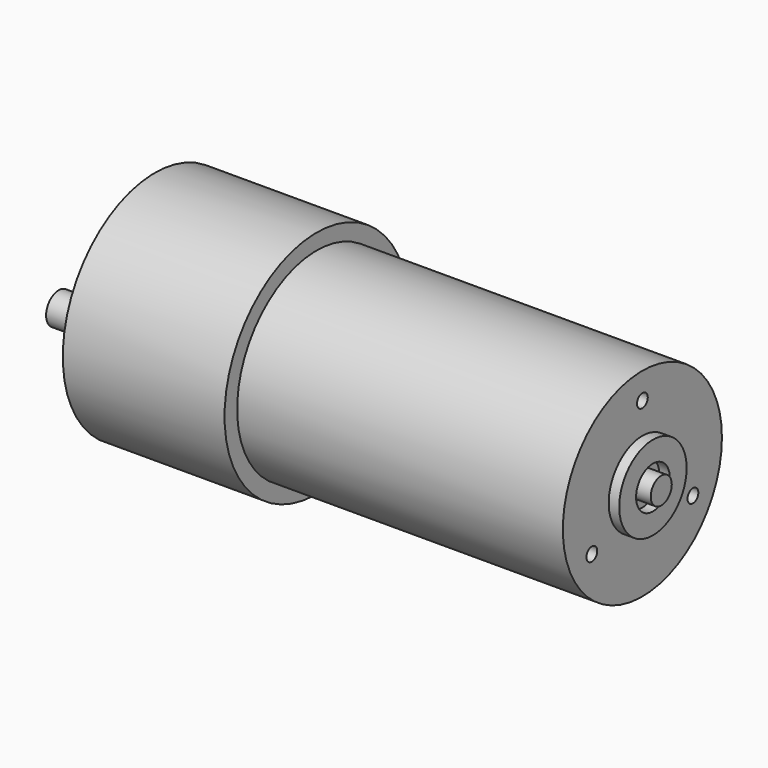
from build123d import *

# Parameters (mm, degrees)
F0_R      = 17.3609
F1_DEPTH  = 24.384
F2_R      = 14.986
F3_DEPTH  = 49.0982
F4_R      = 1.016
F5_DEPTH  = 6.35
F6_R      = 6.35
F6_R_2    = 3.175
F7_DEPTH  = 1.5875
F8_R      = 1.9812
F9_DEPTH  = 2.8448
F10_R     = 1.2065
F11_DEPTH = 6.35
F12_R     = 6.35
F12_R_2   = 4.1275
F13_DEPTH = 1.3716
F14_R     = 2.38125
F15_DEPTH = 15.875


with BuildPart() as f1:
    # F0 (on Right) → F1 (new body)
    with BuildSketch(Plane.YZ):
        Circle(F0_R)
    extrude(amount=F1_DEPTH)

    # F2 (on face) → F3 (join)
    with BuildSketch(Plane.YZ.offset(24.384)):
        Circle(F2_R)
    extrude(amount=F3_DEPTH)

    # F4 (on face) → F5 (cut)
    with BuildSketch(Plane.YZ.offset(73.4822)):
        with Locations((0, 11.01725)):
            Circle(F4_R)
        with Locations((9.525, -5.480534)):
            Circle(F4_R)
        with Locations((-9.525, -5.480534)):
            Circle(F4_R)
    extrude(amount=-F5_DEPTH, mode=Mode.SUBTRACT)

    # F6 (on face) → F7 (join)
    with BuildSketch(Plane.YZ.offset(73.4822)):
        Circle(F6_R)
        Circle(F6_R_2, mode=Mode.SUBTRACT)
    extrude(amount=F7_DEPTH)

    # F8 (on face) → F9 (join)
    with BuildSketch(Plane.YZ.offset(73.4822)):
        Circle(F8_R)
    extrude(amount=F9_DEPTH)

    # F10 (on face) → F11 (cut)
    with BuildSketch(Plane(origin=(0, 0, 0), x_dir=(0, -1, 0), z_dir=(-1, 0, 0))):
        with Locations((0, 13.4239)):
            Circle(F10_R)
        with Locations((11.5951, -6.659402)):
            Circle(F10_R)
        with Locations((-11.5951, -6.659402)):
            Circle(F10_R)
    extrude(amount=-F11_DEPTH, mode=Mode.SUBTRACT)

    # F12 (on face) → F13 (join)
    with BuildSketch(Plane(origin=(0, 0, 0), x_dir=(0, -1, 0), z_dir=(-1, 0, 0))):
        with Locations((-1.7145, -6.4643)):
            Circle(F12_R)
        with Locations((-1.7145, -6.4643)):
            Circle(F12_R_2, mode=Mode.SUBTRACT)
    extrude(amount=F13_DEPTH)

    # F14 (on face) → F15 (join)
    with BuildSketch(Plane(origin=(0, 0, 0), x_dir=(0, -1, 0), z_dir=(-1, 0, 0))):
        with Locations((-1.7145, -6.4643)):
            Circle(F14_R)
    extrude(amount=F15_DEPTH)


solid = f1.part
